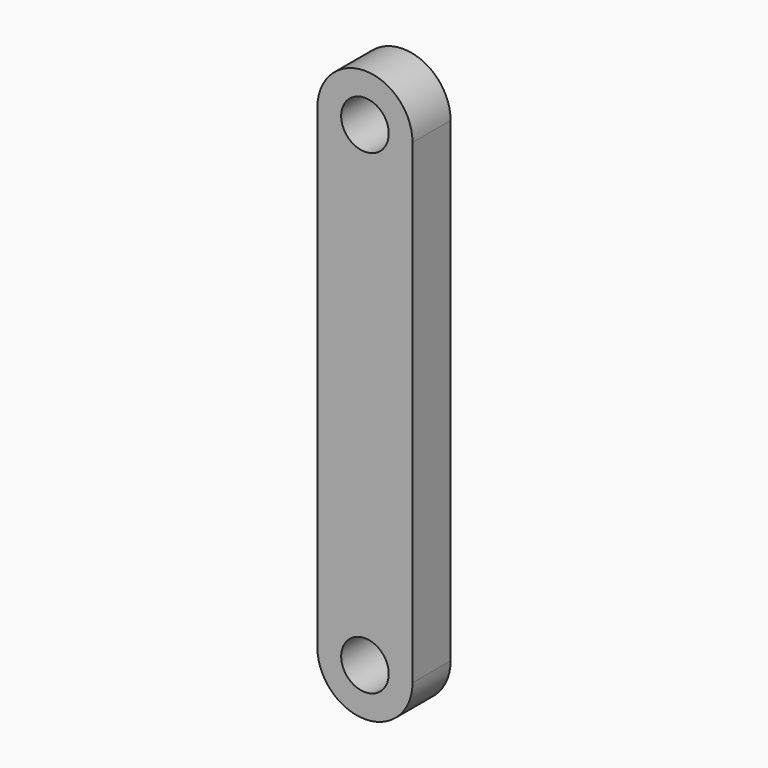
from build123d import *

# Parameters (mm, degrees)
F0_R     = 2.5
F1_DEPTH = 2.5


with BuildPart() as f1:
    # F0 (on Front) → F1 (new body, symmetric)
    with BuildSketch(Plane.XZ):
        with BuildLine():
            Line((-5, 50), (-5, 0))
            ThreePointArc((-5, 0), (0, -5), (5, 0))
            Line((5, 0), (5, 50))
            ThreePointArc((5, 50), (0, 55), (-5, 50))
        make_face()
        Circle(F0_R, mode=Mode.SUBTRACT)
        with Locations((0, 50)):
            Circle(F0_R, mode=Mode.SUBTRACT)
    extrude(amount=F1_DEPTH, both=True)


solid = f1.part
